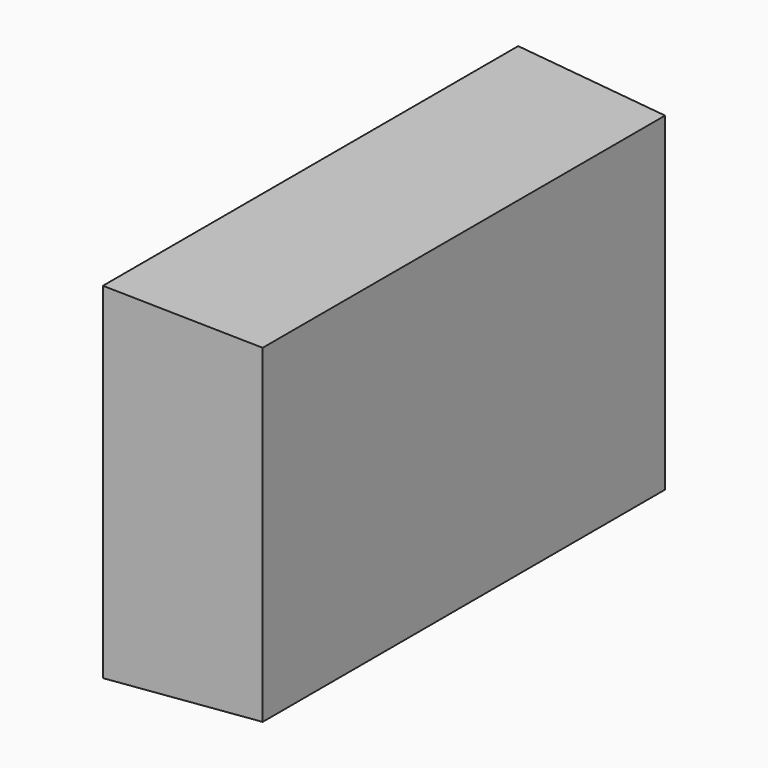
from build123d import *

# Parameters (mm, degrees)
F0_W     = 82.0226073265
F0_H     = 53.7102222443
F1_DEPTH = 25.0000003725
F1_TAPER = -3


with BuildPart() as f1:
    # F0 (on Right) → F1 (new body)
    with BuildSketch(Plane.YZ):
        with Locations((-11.6580426693, 5.8290213346)):
            Rectangle(F0_W, F0_H)
    extrude(amount=-F1_DEPTH, taper=F1_TAPER)


solid = f1.part
